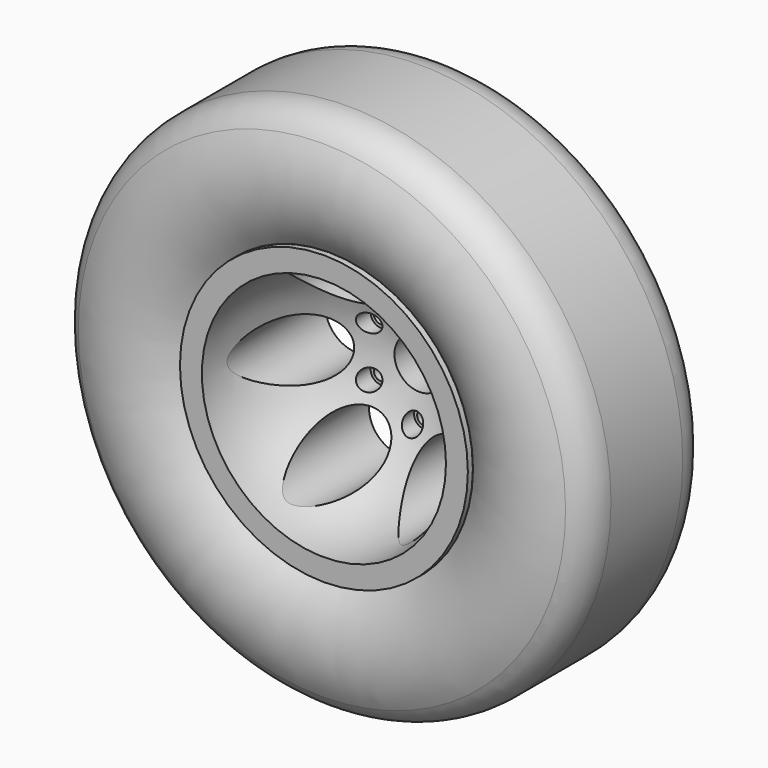
from build123d import *

# Parameters (mm, degrees)
F0_R      = 115
F1_DEPTH  = 60
F4_W      = 15
F4_H      = 110
F6_R      = 20
F7_DEPTH  = 24.57432668
F8_R      = 5.5
F9_DEPTH  = 33.7687555508
F10_R     = 8
F11_DEPTH = 100
F12_R     = 25
F13_DEPTH = 130


with BuildPart() as f1:
    # F0 (on Front) → F1 (new body, symmetric)
    with BuildSketch(Plane.XZ):
        Circle(F0_R)
    extrude(amount=F1_DEPTH, both=True)

    # F2 (on Top) → F3 (revolve, cut)
    with BuildSketch(Plane.XY):
        with BuildLine():
            Line((0, -60), (97.5, -60))
            ThreePointArc((97.5, -60), (68.9429111657, 8.9429111657), (0, 37.5))
            Line((0, 37.5), (0, -60))
        make_face()
    revolve(axis=Axis((0, 0, 0), (0, -1, 0)), mode=Mode.SUBTRACT)

    # F4 (on Top) → F5 (revolve, cut)
    with BuildSketch(Plane.XY):
        with Locations((112.5, 0)):
            Rectangle(F4_W, F4_H)
    revolve(axis=Axis((0, 0, 0), (0, -1, 0)), mode=Mode.SUBTRACT)

    # F6 (on face) → F7 (cut, through all)
    with BuildSketch(Plane(origin=(0, 60, 0), x_dir=(-1, 0, 0), z_dir=(0, 1, 0))):
        Circle(F6_R)
    extrude(amount=-F7_DEPTH, mode=Mode.SUBTRACT)

    # F8 (on face) → F9 (cut, through all)
    with BuildSketch(Plane(origin=(0, 60, 0), x_dir=(-1, 0, 0), z_dir=(0, 1, 0))):
        with Locations((0, 40)):
            Circle(F8_R)
        with Locations((-34.6410161514, 20)):
            Circle(F8_R)
        with Locations((-34.6410161514, -20)):
            Circle(F8_R)
        with Locations((0, -40)):
            Circle(F8_R)
        with Locations((34.6410161514, -20)):
            Circle(F8_R)
        with Locations((34.6410161514, 20)):
            Circle(F8_R)
    extrude(amount=-F9_DEPTH, mode=Mode.SUBTRACT)

    # F10 (on face) → F11 (cut)
    with BuildSketch(Plane.XZ.offset(60)):
        with Locations((0, 40)):
            Circle(F10_R)
        with Locations((-34.6410161514, 20)):
            Circle(F10_R)
        with Locations((-34.6410161514, -20)):
            Circle(F10_R)
        with Locations((0, -40)):
            Circle(F10_R)
        with Locations((34.6410161514, -20)):
            Circle(F10_R)
        with Locations((34.6410161514, 20)):
            Circle(F10_R)
    extrude(amount=-F11_DEPTH, mode=Mode.SUBTRACT)

    # F12 (on face) → F13 (cut)
    with BuildSketch(Plane.XZ.offset(60)):
        with Locations((-35, 60.6217782649)):
            Circle(F12_R)
        with Locations((-70, 0)):
            Circle(F12_R)
        with Locations((-35, -60.6217782649)):
            Circle(F12_R)
        with Locations((35, -60.6217782649)):
            Circle(F12_R)
        with Locations((70, 0)):
            Circle(F12_R)
        with Locations((35, 60.6217782649)):
            Circle(F12_R)
    extrude(amount=-F13_DEPTH, mode=Mode.SUBTRACT)


with BuildPart() as f15:
    # F14 (on Top) → F15 (revolve)
    with BuildSketch(Plane.XY):
        with BuildLine():
            Line((115.1001113587, 55), (105, 55))
            Line((105, 55), (105, -55))
            Line((105, -55), (115.1001113587, -55))
            ThreePointArc((115.1001113587, -55), (153.793131739, -70.7281753362), (194.6341463415, -61.9796410703))
            ThreePointArc((194.6341463415, -61.9796410703), (205.8749337221, -50.9728851568), (210, -35.7910603363))
            Line((210, -35.7910603363), (210, 35.7910603363))
            ThreePointArc((210, 35.7910603363), (205.8749337221, 50.9728851568), (194.6341463415, 61.9796410703))
            ThreePointArc((194.6341463415, 61.9796410703), (153.793131739, 70.7281753362), (115.1001113587, 55))
        make_face()
    revolve(axis=Axis((0, 30, 0), (0, 1, 0)))


solid = Compound([f1.part, f15.part])
